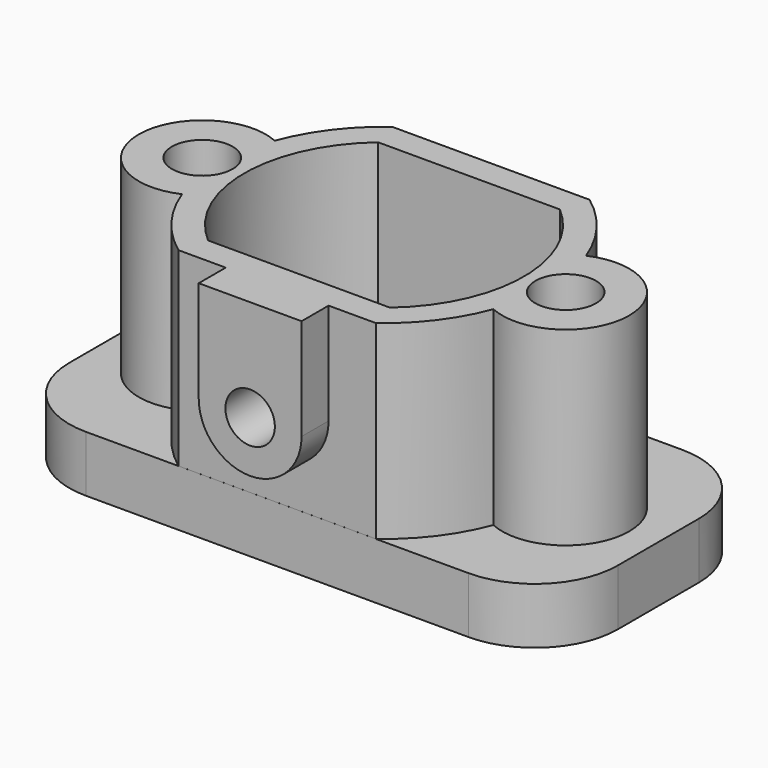
from build123d import *

# Parameters (mm, degrees)
PAD_DEPTH            = 10
PAD001_DEPTH         = 35
SKETCH002_R          = 11.288681
PAD002_DEPTH         = 35
POCKET_DEPTH         = 35.001
SKETCH007_R          = 5.396652
POCKET001_DEPTH      = 10.001
POCKET001_DEPTH_BACK = -35.001
POCKET002_DEPTH      = 10.001
PAD003_DEPTH         = 6
SKETCH010_R          = 4.396251
POCKET003_DEPTH      = 7
SKETCH011_W          = 103.305298
SKETCH011_H          = 76.018318
POCKET004_DEPTH      = 23.748608
POCKET004_DEPTH_BACK = -29.743303


with BuildPart() as part:
    # Sketch → Pad (new body)
    with BuildSketch(Plane.XY):
        with BuildLine():
            ThreePointArc((-34.005628, 23.747608), (-44.43431, 19.427907), (-48.754011, 8.999225))
            Line((-48.754011, -8.999225), (-48.754011, 8.999225))
            ThreePointArc((-48.754011, -8.999225), (-44.43431, -19.427907), (-34.005628, -23.747608))
            Line((34.005628, -23.747608), (-34.005628, -23.747608))
            ThreePointArc((34.005628, -23.747608), (44.43431, -19.427907), (48.754011, -8.999225))
            Line((48.754011, 8.999225), (48.754011, -8.999225))
            ThreePointArc((48.754011, 8.999225), (44.43431, 19.427907), (34.005628, 23.747608))
            Line((-34.005628, 23.747608), (34.005628, 23.747608))
        make_face()
    extrude(amount=PAD_DEPTH)

    # Sketch001 (on Face10 of Pad) → Pad001 (join)
    with BuildSketch(Plane.XY.offset(10)):
        with BuildLine():
            ThreePointArc((17.546094, -23.742303), (29.522235, 0), (17.546094, 23.742303))
            Line((17.546094, 23.742303), (-17.546094, 23.742303))
            ThreePointArc((-17.546094, 23.742303), (-29.522235, 0), (-17.546094, -23.742303))
            Line((-17.546094, -23.742303), (17.546094, -23.742303))
        make_face()
        with BuildLine():
            ThreePointArc((16.156479, -18.892303), (24.858619, 0), (16.156479, 18.892303))
            Line((-16.156479, 18.892303), (16.156479, 18.892303))
            ThreePointArc((-16.156479, 18.892303), (-24.858619, 0), (-16.156479, -18.892303))
            Line((-16.156479, -18.892303), (16.156479, -18.892303))
        make_face(mode=Mode.SUBTRACT)
    extrude(amount=PAD001_DEPTH)

    # Sketch002 (on Face5 of Pad001) → Pad002 (join)
    with BuildSketch(Plane.XY.offset(10)):
        with Locations((32.303345, 0)):
            Circle(SKETCH002_R)
        with Locations((-32.303345, 0)):
            Circle(SKETCH002_R)
    extrude(amount=PAD002_DEPTH)

    # Sketch004 → Pocket (cut, through all)
    with BuildSketch(Plane.XY.offset(10)):
        with BuildLine():
            ThreePointArc((16.156479, -18.892303), (24.858619, 0), (16.156479, 18.892303))
            Line((-16.156479, 18.892303), (16.156479, 18.892303))
            ThreePointArc((-16.156479, 18.892303), (-24.858619, 0), (-16.156479, -18.892303))
            Line((-16.156479, -18.892303), (16.156479, -18.892303))
        make_face()
    extrude(amount=POCKET_DEPTH, mode=Mode.SUBTRACT)

    # Sketch007 → Pocket001 (cut, two sides)
    with BuildSketch(Plane.XY.offset(10)) as pocket001_sk:
        with Locations((32.303345, 0)):
            Circle(SKETCH007_R)
        with Locations((-32.303345, 0)):
            Circle(SKETCH007_R)
    extrude(amount=-POCKET001_DEPTH, mode=Mode.SUBTRACT)
    extrude(pocket001_sk.sketch, amount=-POCKET001_DEPTH_BACK, mode=Mode.SUBTRACT)

    # Sketch008 (on Face38 of Pocket001) → Pocket002 (cut, through all)
    with BuildSketch(Plane.XY.offset(10)):
        with BuildLine():
            ThreePointArc((-8.403063, -3.686291), (0, -9.176067), (8.403063, -3.686291))
            Line((8.403063, -3.686291), (15.352968, -3.686291))
            Line((15.352968, -3.686291), (15.352968, 3.686291))
            Line((15.352968, 3.686291), (8.403063, 3.686291))
            ThreePointArc((8.403063, 3.686291), (0, 9.176067), (-8.403063, 3.686291))
            Line((-8.403063, 3.686291), (-15.352968, 3.686291))
            Line((-15.352968, 3.686291), (-15.352968, -3.686291))
            Line((-15.352968, -3.686291), (-8.403063, -3.686291))
        make_face()
    extrude(amount=-POCKET002_DEPTH, mode=Mode.SUBTRACT)

    # Sketch009 (on Face29 of Pocket002) → Pad003 (join)
    with BuildSketch(Plane.XZ.offset(23.742303)):
        with BuildLine():
            ThreePointArc((-9.139607, 25.729681), (0, 16.590074), (9.139607, 25.729681))
            Line((9.139607, 25.729681), (9.139607, 62.288109))
            ThreePointArc((9.139607, 62.288109), (0, 71.427716), (-9.139607, 62.288109))
            Line((-9.139607, 62.288109), (-9.139607, 25.729681))
        make_face()
    extrude(amount=PAD003_DEPTH)

    # Sketch010 (on Face29 of Pocket002) → Pocket003 (cut, symmetric)
    with BuildSketch(Plane.XZ.offset(23.742303)):
        with Locations((0, 25.729681)):
            Circle(SKETCH010_R)
    extrude(amount=POCKET003_DEPTH, both=True, mode=Mode.SUBTRACT)

    # Sketch011 → Pocket004 (cut, two sides)
    with BuildSketch(Plane.XZ) as pocket004_sk:
        with Locations((0, 81.785393)):
            Rectangle(SKETCH011_W, SKETCH011_H)
    extrude(amount=-POCKET004_DEPTH, mode=Mode.SUBTRACT)
    extrude(pocket004_sk.sketch, amount=-POCKET004_DEPTH_BACK, mode=Mode.SUBTRACT)


solid = part.part
